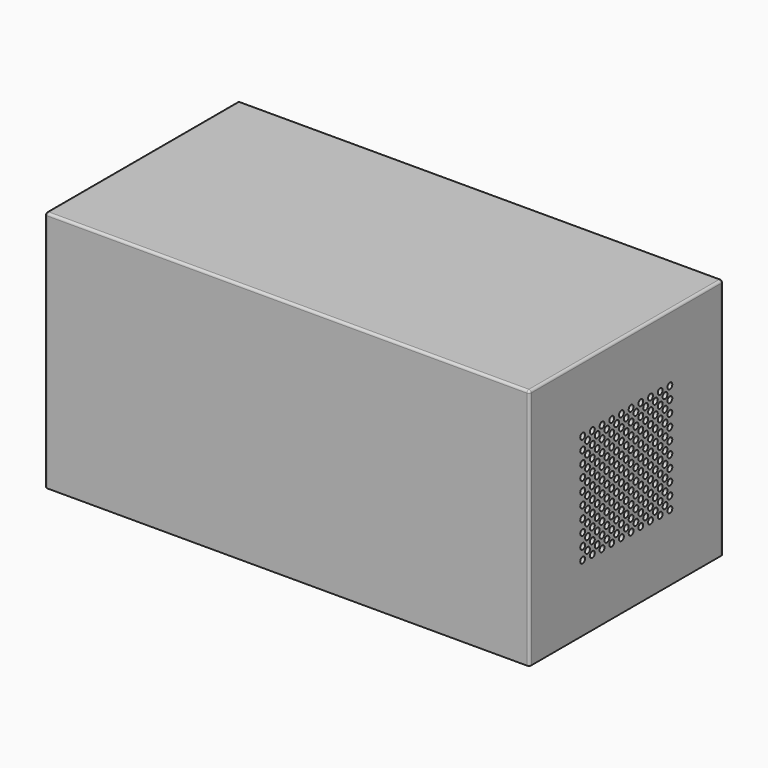
from build123d import *

# Parameters (mm, degrees)
SKETCH_W        = 200
SKETCH_H        = 100
PAD_DEPTH       = 100
SKETCH001_W     = 196
SKETCH001_H     = 96
POCKET_DEPTH    = 98
FILLET_R        = 1
SKETCH007_R     = 1.25
POCKET003_DEPTH = 2
SKETCH008_R     = 1.25
POCKET004_DEPTH = 2
SKETCH009_W     = 69
SKETCH009_H     = 44
PAD004_DEPTH    = 7.5
SKETCH010_W     = 67
SKETCH010_H     = 42
POCKET005_DEPTH = 7.5
SKETCH011_R     = 2.5
SKETCH011_W     = 17
SKETCH011_H     = 14.8
SKETCH011_W_2   = 11
SKETCH011_H_2   = 9
POCKET006_DEPTH = 2
SKETCH002_W     = 194.7
SKETCH002_H     = 95.7
PAD001_DEPTH    = 5
SKETCH003_W     = 95.7
SKETCH003_H     = 97.7
SKETCH003_R     = 23
SKETCH003_R_2   = 1.85
PAD002_DEPTH    = 7
SKETCH004_W     = 50.5
SKETCH004_H     = 50.5
POCKET001_DEPTH = 4.5
SKETCH005_W     = 95.7
SKETCH005_H     = 97.7
SKETCH005_R     = 23
SKETCH005_R_2   = 1.85
PAD003_DEPTH    = 7
SKETCH006_W     = 50.5
SKETCH006_H     = 50.5
POCKET002_DEPTH = 4.5
CHAMFER_SIZE    = 4.45
CHAMFER001_SIZE = 4.45
SKETCH012_W     = 85
SKETCH012_H     = 5
SKETCH012_W_2   = 80
SKETCH012_H_2   = 30
PAD005_DEPTH    = 5
SKETCH013_W     = 78
SKETCH013_H     = 28
POCKET007_DEPTH = 5
SKETCH014_W     = 5
SKETCH014_H     = 5
PAD006_DEPTH    = 10
SKETCH015_R     = 1.375
POCKET008_DEPTH = 6
SKETCH017_W     = 85
SKETCH017_H     = 5
PAD007_DEPTH    = 56
SKETCH018_R     = 3
PAD008_DEPTH    = 5
SKETCH019_R     = 1.75
HOLE_DEPTH      = 25
POCKET009_DEPTH = 2
PAD009_DEPTH    = 1
PAD010_DEPTH    = 1
FILLET001_R     = 2
SKETCH023_R     = 10
HOLE001_DEPTH   = 25


with BuildPart() as body:
    # Sketch → Pad (new body)
    with BuildSketch(Plane.XY):
        Rectangle(SKETCH_W, SKETCH_H)
    extrude(amount=PAD_DEPTH)

    # Sketch001 (on Face5 of Pad) → Pocket (cut)
    with BuildSketch(Plane(origin=(0, 0, 0), x_dir=(1, 0, 0), z_dir=(0, 0, -1))):
        Rectangle(SKETCH001_W, SKETCH001_H)
    extrude(amount=-POCKET_DEPTH, mode=Mode.SUBTRACT)

    # Fillet
    fillet_edges = [body.edges().sort_by_distance(p)[0] for p in [
        (100, 0, 100),
        (0, -50, 100),
        (-100, 0, 100),
        (0, 50, 100),
        (-100, -50, 50),
        (-100, 50, 50),
        (100, -50, 50),
        (100, 50, 50),
    ]]
    fillet(fillet_edges, radius=FILLET_R)

    # Sketch007 (on Face7 of Fillet) → Pocket003 (cut)
    with BuildSketch(Plane.YZ.offset(100)):
        with Locations((-22.5, 72.5)):
            Circle(SKETCH007_R)
        with Locations((-20, 70)):
            Circle(SKETCH007_R)
        with Locations((-17.5, 72.5)):
            Circle(SKETCH007_R)
        with Locations((-12.5, 72.5)):
            Circle(SKETCH007_R)
        with Locations((-7.5, 72.5)):
            Circle(SKETCH007_R)
        with Locations((-2.5, 72.5)):
            Circle(SKETCH007_R)
        with Locations((2.5, 72.5)):
            Circle(SKETCH007_R)
        with Locations((7.5, 72.5)):
            Circle(SKETCH007_R)
        with Locations((12.5, 72.5)):
            Circle(SKETCH007_R)
        with Locations((17.5, 72.5)):
            Circle(SKETCH007_R)
        with Locations((22.5, 72.5)):
            Circle(SKETCH007_R)
        with Locations((-22.5, 67.5)):
            Circle(SKETCH007_R)
        with Locations((-17.5, 67.5)):
            Circle(SKETCH007_R)
        with Locations((-12.5, 67.5)):
            Circle(SKETCH007_R)
        with Locations((-7.5, 67.5)):
            Circle(SKETCH007_R)
        with Locations((-2.5, 67.5)):
            Circle(SKETCH007_R)
        with Locations((2.5, 67.5)):
            Circle(SKETCH007_R)
        with Locations((7.5, 67.5)):
            Circle(SKETCH007_R)
        with Locations((12.5, 67.5)):
            Circle(SKETCH007_R)
        with Locations((17.5, 67.5)):
            Circle(SKETCH007_R)
        with Locations((22.5, 67.5)):
            Circle(SKETCH007_R)
        with Locations((-22.5, 62.5)):
            Circle(SKETCH007_R)
        with Locations((-17.5, 62.5)):
            Circle(SKETCH007_R)
        with Locations((-12.5, 62.5)):
            Circle(SKETCH007_R)
        with Locations((-7.5, 62.5)):
            Circle(SKETCH007_R)
        with Locations((-2.5, 62.5)):
            Circle(SKETCH007_R)
        with Locations((2.5, 62.5)):
            Circle(SKETCH007_R)
        with Locations((7.5, 62.5)):
            Circle(SKETCH007_R)
        with Locations((12.5, 62.5)):
            Circle(SKETCH007_R)
        with Locations((17.5, 62.5)):
            Circle(SKETCH007_R)
        with Locations((22.5, 62.5)):
            Circle(SKETCH007_R)
        with Locations((-22.5, 57.5)):
            Circle(SKETCH007_R)
        with Locations((-17.5, 57.5)):
            Circle(SKETCH007_R)
        with Locations((-12.5, 57.5)):
            Circle(SKETCH007_R)
        with Locations((-7.5, 57.5)):
            Circle(SKETCH007_R)
        with Locations((-2.5, 57.5)):
            Circle(SKETCH007_R)
        with Locations((2.5, 57.5)):
            Circle(SKETCH007_R)
        with Locations((7.5, 57.5)):
            Circle(SKETCH007_R)
        with Locations((12.5, 57.5)):
            Circle(SKETCH007_R)
        with Locations((17.5, 57.5)):
            Circle(SKETCH007_R)
        with Locations((22.5, 57.5)):
            Circle(SKETCH007_R)
        with Locations((-22.5, 52.5)):
            Circle(SKETCH007_R)
        with Locations((-17.5, 52.5)):
            Circle(SKETCH007_R)
        with Locations((-12.5, 52.5)):
            Circle(SKETCH007_R)
        with Locations((-7.5, 52.5)):
            Circle(SKETCH007_R)
        with Locations((-2.5, 52.5)):
            Circle(SKETCH007_R)
        with Locations((2.5, 52.5)):
            Circle(SKETCH007_R)
        with Locations((7.5, 52.5)):
            Circle(SKETCH007_R)
        with Locations((12.5, 52.5)):
            Circle(SKETCH007_R)
        with Locations((17.5, 52.5)):
            Circle(SKETCH007_R)
        with Locations((22.5, 52.5)):
            Circle(SKETCH007_R)
        with Locations((-22.5, 47.5)):
            Circle(SKETCH007_R)
        with Locations((-17.5, 47.5)):
            Circle(SKETCH007_R)
        with Locations((-12.5, 47.5)):
            Circle(SKETCH007_R)
        with Locations((-7.5, 47.5)):
            Circle(SKETCH007_R)
        with Locations((-2.5, 47.5)):
            Circle(SKETCH007_R)
        with Locations((2.5, 47.5)):
            Circle(SKETCH007_R)
        with Locations((7.5, 47.5)):
            Circle(SKETCH007_R)
        with Locations((12.5, 47.5)):
            Circle(SKETCH007_R)
        with Locations((17.5, 47.5)):
            Circle(SKETCH007_R)
        with Locations((22.5, 47.5)):
            Circle(SKETCH007_R)
        with Locations((-22.5, 42.5)):
            Circle(SKETCH007_R)
        with Locations((-17.5, 42.5)):
            Circle(SKETCH007_R)
        with Locations((-12.5, 42.5)):
            Circle(SKETCH007_R)
        with Locations((-7.5, 42.5)):
            Circle(SKETCH007_R)
        with Locations((-2.5, 42.5)):
            Circle(SKETCH007_R)
        with Locations((2.5, 42.5)):
            Circle(SKETCH007_R)
        with Locations((7.5, 42.5)):
            Circle(SKETCH007_R)
        with Locations((12.5, 42.5)):
            Circle(SKETCH007_R)
        with Locations((17.5, 42.5)):
            Circle(SKETCH007_R)
        with Locations((22.5, 42.5)):
            Circle(SKETCH007_R)
        with Locations((-22.5, 37.5)):
            Circle(SKETCH007_R)
        with Locations((-17.5, 37.5)):
            Circle(SKETCH007_R)
        with Locations((-12.5, 37.5)):
            Circle(SKETCH007_R)
        with Locations((-7.5, 37.5)):
            Circle(SKETCH007_R)
        with Locations((-2.5, 37.5)):
            Circle(SKETCH007_R)
        with Locations((2.5, 37.5)):
            Circle(SKETCH007_R)
        with Locations((7.5, 37.5)):
            Circle(SKETCH007_R)
        with Locations((12.5, 37.5)):
            Circle(SKETCH007_R)
        with Locations((17.5, 37.5)):
            Circle(SKETCH007_R)
        with Locations((22.5, 37.5)):
            Circle(SKETCH007_R)
        with Locations((-22.5, 32.5)):
            Circle(SKETCH007_R)
        with Locations((-17.5, 32.5)):
            Circle(SKETCH007_R)
        with Locations((-12.5, 32.5)):
            Circle(SKETCH007_R)
        with Locations((-7.5, 32.5)):
            Circle(SKETCH007_R)
        with Locations((-2.5, 32.5)):
            Circle(SKETCH007_R)
        with Locations((2.5, 32.5)):
            Circle(SKETCH007_R)
        with Locations((7.5, 32.5)):
            Circle(SKETCH007_R)
        with Locations((12.5, 32.5)):
            Circle(SKETCH007_R)
        with Locations((17.5, 32.5)):
            Circle(SKETCH007_R)
        with Locations((22.5, 32.5)):
            Circle(SKETCH007_R)
        with Locations((-22.5, 27.5)):
            Circle(SKETCH007_R)
        with Locations((-17.5, 27.5)):
            Circle(SKETCH007_R)
        with Locations((-12.5, 27.5)):
            Circle(SKETCH007_R)
        with Locations((-7.5, 27.5)):
            Circle(SKETCH007_R)
        with Locations((-2.5, 27.5)):
            Circle(SKETCH007_R)
        with Locations((2.5, 27.5)):
            Circle(SKETCH007_R)
        with Locations((7.5, 27.5)):
            Circle(SKETCH007_R)
        with Locations((12.5, 27.5)):
            Circle(SKETCH007_R)
        with Locations((17.5, 27.5)):
            Circle(SKETCH007_R)
        with Locations((22.5, 27.5)):
            Circle(SKETCH007_R)
        with Locations((-15, 70)):
            Circle(SKETCH007_R)
        with Locations((-10, 70)):
            Circle(SKETCH007_R)
        with Locations((-5, 70)):
            Circle(SKETCH007_R)
        with Locations((0, 70)):
            Circle(SKETCH007_R)
        with Locations((5, 70)):
            Circle(SKETCH007_R)
        with Locations((10, 70)):
            Circle(SKETCH007_R)
        with Locations((15, 70)):
            Circle(SKETCH007_R)
        with Locations((20, 70)):
            Circle(SKETCH007_R)
        with Locations((-20, 65)):
            Circle(SKETCH007_R)
        with Locations((-15, 65)):
            Circle(SKETCH007_R)
        with Locations((-10, 65)):
            Circle(SKETCH007_R)
        with Locations((-5, 65)):
            Circle(SKETCH007_R)
        with Locations((0, 65)):
            Circle(SKETCH007_R)
        with Locations((5, 65)):
            Circle(SKETCH007_R)
        with Locations((10, 65)):
            Circle(SKETCH007_R)
        with Locations((15, 65)):
            Circle(SKETCH007_R)
        with Locations((20, 65)):
            Circle(SKETCH007_R)
        with Locations((-20, 60)):
            Circle(SKETCH007_R)
        with Locations((-15, 60)):
            Circle(SKETCH007_R)
        with Locations((-10, 60)):
            Circle(SKETCH007_R)
        with Locations((-5, 60)):
            Circle(SKETCH007_R)
        with Locations((0, 60)):
            Circle(SKETCH007_R)
        with Locations((5, 60)):
            Circle(SKETCH007_R)
        with Locations((10, 60)):
            Circle(SKETCH007_R)
        with Locations((15, 60)):
            Circle(SKETCH007_R)
        with Locations((20, 60)):
            Circle(SKETCH007_R)
        with Locations((-20, 55)):
            Circle(SKETCH007_R)
        with Locations((-15, 55)):
            Circle(SKETCH007_R)
        with Locations((-10, 55)):
            Circle(SKETCH007_R)
        with Locations((-5, 55)):
            Circle(SKETCH007_R)
        with Locations((0, 55)):
            Circle(SKETCH007_R)
        with Locations((5, 55)):
            Circle(SKETCH007_R)
        with Locations((10, 55)):
            Circle(SKETCH007_R)
        with Locations((15, 55)):
            Circle(SKETCH007_R)
        with Locations((20, 55)):
            Circle(SKETCH007_R)
        with Locations((-20, 50)):
            Circle(SKETCH007_R)
        with Locations((-15, 50)):
            Circle(SKETCH007_R)
        with Locations((-10, 50)):
            Circle(SKETCH007_R)
        with Locations((-5, 50)):
            Circle(SKETCH007_R)
        with Locations((0, 50)):
            Circle(SKETCH007_R)
        with Locations((5, 50)):
            Circle(SKETCH007_R)
        with Locations((10, 50)):
            Circle(SKETCH007_R)
        with Locations((15, 50)):
            Circle(SKETCH007_R)
        with Locations((20, 50)):
            Circle(SKETCH007_R)
        with Locations((-20, 45)):
            Circle(SKETCH007_R)
        with Locations((-15, 45)):
            Circle(SKETCH007_R)
        with Locations((-10, 45)):
            Circle(SKETCH007_R)
        with Locations((-5, 45)):
            Circle(SKETCH007_R)
        with Locations((0, 45)):
            Circle(SKETCH007_R)
        with Locations((5, 45)):
            Circle(SKETCH007_R)
        with Locations((10, 45)):
            Circle(SKETCH007_R)
        with Locations((15, 45)):
            Circle(SKETCH007_R)
        with Locations((20, 45)):
            Circle(SKETCH007_R)
        with Locations((-20, 40)):
            Circle(SKETCH007_R)
        with Locations((-15, 40)):
            Circle(SKETCH007_R)
        with Locations((-10, 40)):
            Circle(SKETCH007_R)
        with Locations((-5, 40)):
            Circle(SKETCH007_R)
        with Locations((0, 40)):
            Circle(SKETCH007_R)
        with Locations((5, 40)):
            Circle(SKETCH007_R)
        with Locations((10, 40)):
            Circle(SKETCH007_R)
        with Locations((15, 40)):
            Circle(SKETCH007_R)
        with Locations((20, 40)):
            Circle(SKETCH007_R)
        with Locations((-20, 35)):
            Circle(SKETCH007_R)
        with Locations((-15, 35)):
            Circle(SKETCH007_R)
        with Locations((-10, 35)):
            Circle(SKETCH007_R)
        with Locations((-5, 35)):
            Circle(SKETCH007_R)
        with Locations((0, 35)):
            Circle(SKETCH007_R)
        with Locations((5, 35)):
            Circle(SKETCH007_R)
        with Locations((10, 35)):
            Circle(SKETCH007_R)
        with Locations((15, 35)):
            Circle(SKETCH007_R)
        with Locations((20, 35)):
            Circle(SKETCH007_R)
        with Locations((-20, 30)):
            Circle(SKETCH007_R)
        with Locations((-15, 30)):
            Circle(SKETCH007_R)
        with Locations((-10, 30)):
            Circle(SKETCH007_R)
        with Locations((-5, 30)):
            Circle(SKETCH007_R)
        with Locations((0, 30)):
            Circle(SKETCH007_R)
        with Locations((5, 30)):
            Circle(SKETCH007_R)
        with Locations((10, 30)):
            Circle(SKETCH007_R)
        with Locations((15, 30)):
            Circle(SKETCH007_R)
        with Locations((20, 30)):
            Circle(SKETCH007_R)
    extrude(amount=-POCKET003_DEPTH, mode=Mode.SUBTRACT)

    # Sketch008 (on Face6 of Pocket003) → Pocket004 (cut)
    with BuildSketch(Plane(origin=(-100, 0, 0), x_dir=(0, -1, 0), z_dir=(-1, 0, 0))):
        with Locations((-22.5, 72.5)):
            Circle(SKETCH008_R)
        with Locations((-20, 70)):
            Circle(SKETCH008_R)
        with Locations((-17.5, 72.5)):
            Circle(SKETCH008_R)
        with Locations((-12.5, 72.5)):
            Circle(SKETCH008_R)
        with Locations((-7.5, 72.5)):
            Circle(SKETCH008_R)
        with Locations((-2.5, 72.5)):
            Circle(SKETCH008_R)
        with Locations((2.5, 72.5)):
            Circle(SKETCH008_R)
        with Locations((7.5, 72.5)):
            Circle(SKETCH008_R)
        with Locations((12.5, 72.5)):
            Circle(SKETCH008_R)
        with Locations((17.5, 72.5)):
            Circle(SKETCH008_R)
        with Locations((22.5, 72.5)):
            Circle(SKETCH008_R)
        with Locations((-22.5, 67.5)):
            Circle(SKETCH008_R)
        with Locations((-17.5, 67.5)):
            Circle(SKETCH008_R)
        with Locations((-12.5, 67.5)):
            Circle(SKETCH008_R)
        with Locations((-7.5, 67.5)):
            Circle(SKETCH008_R)
        with Locations((-2.5, 67.5)):
            Circle(SKETCH008_R)
        with Locations((2.5, 67.5)):
            Circle(SKETCH008_R)
        with Locations((7.5, 67.5)):
            Circle(SKETCH008_R)
        with Locations((12.5, 67.5)):
            Circle(SKETCH008_R)
        with Locations((17.5, 67.5)):
            Circle(SKETCH008_R)
        with Locations((22.5, 67.5)):
            Circle(SKETCH008_R)
        with Locations((-22.5, 62.5)):
            Circle(SKETCH008_R)
        with Locations((-17.5, 62.5)):
            Circle(SKETCH008_R)
        with Locations((-12.5, 62.5)):
            Circle(SKETCH008_R)
        with Locations((-7.5, 62.5)):
            Circle(SKETCH008_R)
        with Locations((-2.5, 62.5)):
            Circle(SKETCH008_R)
        with Locations((2.5, 62.5)):
            Circle(SKETCH008_R)
        with Locations((7.5, 62.5)):
            Circle(SKETCH008_R)
        with Locations((12.5, 62.5)):
            Circle(SKETCH008_R)
        with Locations((17.5, 62.5)):
            Circle(SKETCH008_R)
        with Locations((22.5, 62.5)):
            Circle(SKETCH008_R)
        with Locations((-22.5, 57.5)):
            Circle(SKETCH008_R)
        with Locations((-17.5, 57.5)):
            Circle(SKETCH008_R)
        with Locations((-12.5, 57.5)):
            Circle(SKETCH008_R)
        with Locations((-7.5, 57.5)):
            Circle(SKETCH008_R)
        with Locations((-2.5, 57.5)):
            Circle(SKETCH008_R)
        with Locations((2.5, 57.5)):
            Circle(SKETCH008_R)
        with Locations((7.5, 57.5)):
            Circle(SKETCH008_R)
        with Locations((12.5, 57.5)):
            Circle(SKETCH008_R)
        with Locations((17.5, 57.5)):
            Circle(SKETCH008_R)
        with Locations((22.5, 57.5)):
            Circle(SKETCH008_R)
        with Locations((-22.5, 52.5)):
            Circle(SKETCH008_R)
        with Locations((-17.5, 52.5)):
            Circle(SKETCH008_R)
        with Locations((-12.5, 52.5)):
            Circle(SKETCH008_R)
        with Locations((-7.5, 52.5)):
            Circle(SKETCH008_R)
        with Locations((-2.5, 52.5)):
            Circle(SKETCH008_R)
        with Locations((2.5, 52.5)):
            Circle(SKETCH008_R)
        with Locations((7.5, 52.5)):
            Circle(SKETCH008_R)
        with Locations((12.5, 52.5)):
            Circle(SKETCH008_R)
        with Locations((17.5, 52.5)):
            Circle(SKETCH008_R)
        with Locations((22.5, 52.5)):
            Circle(SKETCH008_R)
        with Locations((-22.5, 47.5)):
            Circle(SKETCH008_R)
        with Locations((-17.5, 47.5)):
            Circle(SKETCH008_R)
        with Locations((-12.5, 47.5)):
            Circle(SKETCH008_R)
        with Locations((-7.5, 47.5)):
            Circle(SKETCH008_R)
        with Locations((-2.5, 47.5)):
            Circle(SKETCH008_R)
        with Locations((2.5, 47.5)):
            Circle(SKETCH008_R)
        with Locations((7.5, 47.5)):
            Circle(SKETCH008_R)
        with Locations((12.5, 47.5)):
            Circle(SKETCH008_R)
        with Locations((17.5, 47.5)):
            Circle(SKETCH008_R)
        with Locations((22.5, 47.5)):
            Circle(SKETCH008_R)
        with Locations((-22.5, 42.5)):
            Circle(SKETCH008_R)
        with Locations((-17.5, 42.5)):
            Circle(SKETCH008_R)
        with Locations((-12.5, 42.5)):
            Circle(SKETCH008_R)
        with Locations((-7.5, 42.5)):
            Circle(SKETCH008_R)
        with Locations((-2.5, 42.5)):
            Circle(SKETCH008_R)
        with Locations((2.5, 42.5)):
            Circle(SKETCH008_R)
        with Locations((7.5, 42.5)):
            Circle(SKETCH008_R)
        with Locations((12.5, 42.5)):
            Circle(SKETCH008_R)
        with Locations((17.5, 42.5)):
            Circle(SKETCH008_R)
        with Locations((22.5, 42.5)):
            Circle(SKETCH008_R)
        with Locations((-22.5, 37.5)):
            Circle(SKETCH008_R)
        with Locations((-17.5, 37.5)):
            Circle(SKETCH008_R)
        with Locations((-12.5, 37.5)):
            Circle(SKETCH008_R)
        with Locations((-7.5, 37.5)):
            Circle(SKETCH008_R)
        with Locations((-2.5, 37.5)):
            Circle(SKETCH008_R)
        with Locations((2.5, 37.5)):
            Circle(SKETCH008_R)
        with Locations((7.5, 37.5)):
            Circle(SKETCH008_R)
        with Locations((12.5, 37.5)):
            Circle(SKETCH008_R)
        with Locations((17.5, 37.5)):
            Circle(SKETCH008_R)
        with Locations((22.5, 37.5)):
            Circle(SKETCH008_R)
        with Locations((-22.5, 32.5)):
            Circle(SKETCH008_R)
        with Locations((-17.5, 32.5)):
            Circle(SKETCH008_R)
        with Locations((-12.5, 32.5)):
            Circle(SKETCH008_R)
        with Locations((-7.5, 32.5)):
            Circle(SKETCH008_R)
        with Locations((-2.5, 32.5)):
            Circle(SKETCH008_R)
        with Locations((2.5, 32.5)):
            Circle(SKETCH008_R)
        with Locations((7.5, 32.5)):
            Circle(SKETCH008_R)
        with Locations((12.5, 32.5)):
            Circle(SKETCH008_R)
        with Locations((17.5, 32.5)):
            Circle(SKETCH008_R)
        with Locations((22.5, 32.5)):
            Circle(SKETCH008_R)
        with Locations((-22.5, 27.5)):
            Circle(SKETCH008_R)
        with Locations((-17.5, 27.5)):
            Circle(SKETCH008_R)
        with Locations((-12.5, 27.5)):
            Circle(SKETCH008_R)
        with Locations((-7.5, 27.5)):
            Circle(SKETCH008_R)
        with Locations((-2.5, 27.5)):
            Circle(SKETCH008_R)
        with Locations((2.5, 27.5)):
            Circle(SKETCH008_R)
        with Locations((7.5, 27.5)):
            Circle(SKETCH008_R)
        with Locations((12.5, 27.5)):
            Circle(SKETCH008_R)
        with Locations((17.5, 27.5)):
            Circle(SKETCH008_R)
        with Locations((22.5, 27.5)):
            Circle(SKETCH008_R)
        with Locations((-15, 70)):
            Circle(SKETCH008_R)
        with Locations((-10, 70)):
            Circle(SKETCH008_R)
        with Locations((-5, 70)):
            Circle(SKETCH008_R)
        with Locations((0, 70)):
            Circle(SKETCH008_R)
        with Locations((5, 70)):
            Circle(SKETCH008_R)
        with Locations((10, 70)):
            Circle(SKETCH008_R)
        with Locations((15, 70)):
            Circle(SKETCH008_R)
        with Locations((20, 70)):
            Circle(SKETCH008_R)
        with Locations((-20, 65)):
            Circle(SKETCH008_R)
        with Locations((-15, 65)):
            Circle(SKETCH008_R)
        with Locations((-10, 65)):
            Circle(SKETCH008_R)
        with Locations((-5, 65)):
            Circle(SKETCH008_R)
        with Locations((0, 65)):
            Circle(SKETCH008_R)
        with Locations((5, 65)):
            Circle(SKETCH008_R)
        with Locations((10, 65)):
            Circle(SKETCH008_R)
        with Locations((15, 65)):
            Circle(SKETCH008_R)
        with Locations((20, 65)):
            Circle(SKETCH008_R)
        with Locations((-20, 60)):
            Circle(SKETCH008_R)
        with Locations((-15, 60)):
            Circle(SKETCH008_R)
        with Locations((-10, 60)):
            Circle(SKETCH008_R)
        with Locations((-5, 60)):
            Circle(SKETCH008_R)
        with Locations((0, 60)):
            Circle(SKETCH008_R)
        with Locations((5, 60)):
            Circle(SKETCH008_R)
        with Locations((10, 60)):
            Circle(SKETCH008_R)
        with Locations((15, 60)):
            Circle(SKETCH008_R)
        with Locations((20, 60)):
            Circle(SKETCH008_R)
        with Locations((-20, 55)):
            Circle(SKETCH008_R)
        with Locations((-15, 55)):
            Circle(SKETCH008_R)
        with Locations((-10, 55)):
            Circle(SKETCH008_R)
        with Locations((-5, 55)):
            Circle(SKETCH008_R)
        with Locations((0, 55)):
            Circle(SKETCH008_R)
        with Locations((5, 55)):
            Circle(SKETCH008_R)
        with Locations((10, 55)):
            Circle(SKETCH008_R)
        with Locations((15, 55)):
            Circle(SKETCH008_R)
        with Locations((20, 55)):
            Circle(SKETCH008_R)
        with Locations((-20, 50)):
            Circle(SKETCH008_R)
        with Locations((-15, 50)):
            Circle(SKETCH008_R)
        with Locations((-10, 50)):
            Circle(SKETCH008_R)
        with Locations((-5, 50)):
            Circle(SKETCH008_R)
        with Locations((0, 50)):
            Circle(SKETCH008_R)
        with Locations((5, 50)):
            Circle(SKETCH008_R)
        with Locations((10, 50)):
            Circle(SKETCH008_R)
        with Locations((15, 50)):
            Circle(SKETCH008_R)
        with Locations((20, 50)):
            Circle(SKETCH008_R)
        with Locations((-20, 45)):
            Circle(SKETCH008_R)
        with Locations((-15, 45)):
            Circle(SKETCH008_R)
        with Locations((-10, 45)):
            Circle(SKETCH008_R)
        with Locations((-5, 45)):
            Circle(SKETCH008_R)
        with Locations((0, 45)):
            Circle(SKETCH008_R)
        with Locations((5, 45)):
            Circle(SKETCH008_R)
        with Locations((10, 45)):
            Circle(SKETCH008_R)
        with Locations((15, 45)):
            Circle(SKETCH008_R)
        with Locations((20, 45)):
            Circle(SKETCH008_R)
        with Locations((-20, 40)):
            Circle(SKETCH008_R)
        with Locations((-15, 40)):
            Circle(SKETCH008_R)
        with Locations((-10, 40)):
            Circle(SKETCH008_R)
        with Locations((-5, 40)):
            Circle(SKETCH008_R)
        with Locations((0, 40)):
            Circle(SKETCH008_R)
        with Locations((5, 40)):
            Circle(SKETCH008_R)
        with Locations((10, 40)):
            Circle(SKETCH008_R)
        with Locations((15, 40)):
            Circle(SKETCH008_R)
        with Locations((20, 40)):
            Circle(SKETCH008_R)
        with Locations((-20, 35)):
            Circle(SKETCH008_R)
        with Locations((-15, 35)):
            Circle(SKETCH008_R)
        with Locations((-10, 35)):
            Circle(SKETCH008_R)
        with Locations((-5, 35)):
            Circle(SKETCH008_R)
        with Locations((0, 35)):
            Circle(SKETCH008_R)
        with Locations((5, 35)):
            Circle(SKETCH008_R)
        with Locations((10, 35)):
            Circle(SKETCH008_R)
        with Locations((15, 35)):
            Circle(SKETCH008_R)
        with Locations((20, 35)):
            Circle(SKETCH008_R)
        with Locations((-20, 30)):
            Circle(SKETCH008_R)
        with Locations((-15, 30)):
            Circle(SKETCH008_R)
        with Locations((-10, 30)):
            Circle(SKETCH008_R)
        with Locations((-5, 30)):
            Circle(SKETCH008_R)
        with Locations((0, 30)):
            Circle(SKETCH008_R)
        with Locations((5, 30)):
            Circle(SKETCH008_R)
        with Locations((10, 30)):
            Circle(SKETCH008_R)
        with Locations((15, 30)):
            Circle(SKETCH008_R)
        with Locations((20, 30)):
            Circle(SKETCH008_R)
    extrude(amount=-POCKET004_DEPTH, mode=Mode.SUBTRACT)

    # Sketch009 (on Face385 of Pocket004) → Pad004 (join)
    with BuildSketch(Plane(origin=(0, 0, 98), x_dir=(1, 0, 0), z_dir=(0, 0, -1))):
        Rectangle(SKETCH009_W, SKETCH009_H)
    extrude(amount=PAD004_DEPTH)

    # Sketch010 (on Face390 of Pad004) → Pocket005 (cut)
    with BuildSketch(Plane(origin=(0, 0, 90.5), x_dir=(1, 0, 0), z_dir=(0, 0, -1))):
        Rectangle(SKETCH010_W, SKETCH010_H)
    extrude(amount=-POCKET005_DEPTH, mode=Mode.SUBTRACT)

    # Sketch011 (on Face1 of Pocket005) → Pocket006 (cut)
    with BuildSketch(Plane(origin=(0, 50, 0), x_dir=(-1, 0, 0), z_dir=(0, 1, 0))):
        with Locations((-90, 90)):
            Circle(SKETCH011_R)
        with Locations((-70, 90)):
            Circle(SKETCH011_R)
        with Locations((-50, 90)):
            Circle(SKETCH011_R)
        with Locations((-30, 90)):
            Circle(SKETCH011_R)
        with Locations((30, 90)):
            Circle(SKETCH011_R)
        with Locations((50, 90)):
            Circle(SKETCH011_R)
        with Locations((70, 90)):
            Circle(SKETCH011_R)
        with Locations((90, 90)):
            Circle(SKETCH011_R)
        with Locations((-90, 70)):
            Circle(SKETCH011_R)
        with Locations((-70, 70)):
            Circle(SKETCH011_R)
        with Locations((-50, 70)):
            Circle(SKETCH011_R)
        with Locations((-30, 70)):
            Circle(SKETCH011_R)
        with Locations((-10, 70)):
            Circle(SKETCH011_R)
        with Locations((10, 70)):
            Circle(SKETCH011_R)
        with Locations((30, 70)):
            Circle(SKETCH011_R)
        with Locations((50, 70)):
            Circle(SKETCH011_R)
        with Locations((70, 70)):
            Circle(SKETCH011_R)
        with Locations((90, 70)):
            Circle(SKETCH011_R)
        with Locations((-90, 50)):
            Circle(SKETCH011_R)
        with Locations((-70, 50)):
            Circle(SKETCH011_R)
        with Locations((-50, 50)):
            Circle(SKETCH011_R)
        with Locations((-30, 50)):
            Circle(SKETCH011_R)
        with Locations((-10, 50)):
            Circle(SKETCH011_R)
        with Locations((10, 50)):
            Circle(SKETCH011_R)
        with Locations((30, 50)):
            Circle(SKETCH011_R)
        with Locations((50, 50)):
            Circle(SKETCH011_R)
        with Locations((70, 50)):
            Circle(SKETCH011_R)
        with Locations((90, 50)):
            Circle(SKETCH011_R)
        with Locations((-90, 30)):
            Circle(SKETCH011_R)
        with Locations((-70, 30)):
            Circle(SKETCH011_R)
        with Locations((-50, 30)):
            Circle(SKETCH011_R)
        with Locations((-30, 30)):
            Circle(SKETCH011_R)
        with Locations((-10, 30)):
            Circle(SKETCH011_R)
        with Locations((10, 30)):
            Circle(SKETCH011_R)
        with Locations((30, 30)):
            Circle(SKETCH011_R)
        with Locations((50, 30)):
            Circle(SKETCH011_R)
        with Locations((70, 30)):
            Circle(SKETCH011_R)
        with Locations((90, 30)):
            Circle(SKETCH011_R)
        with Locations((-90, 10)):
            Circle(SKETCH011_R)
        with Locations((-70, 10)):
            Circle(SKETCH011_R)
        with Locations((-50, 10)):
            Circle(SKETCH011_R)
        with Locations((-10, 10)):
            Circle(SKETCH011_R)
        with Locations((10, 10)):
            Circle(SKETCH011_R)
        with Locations((30, 10)):
            Circle(SKETCH011_R)
        with Locations((50, 10)):
            Circle(SKETCH011_R)
        with Locations((70, 10)):
            Circle(SKETCH011_R)
        with Locations((90, 10)):
            Circle(SKETCH011_R)
        with Locations((-80, 80)):
            Circle(SKETCH011_R)
        with Locations((-60, 80)):
            Circle(SKETCH011_R)
        with Locations((-40, 80)):
            Circle(SKETCH011_R)
        with Locations((-20, 80)):
            Circle(SKETCH011_R)
        with Locations((20, 80)):
            Circle(SKETCH011_R)
        with Locations((40, 80)):
            Circle(SKETCH011_R)
        with Locations((60, 80)):
            Circle(SKETCH011_R)
        with Locations((80, 80)):
            Circle(SKETCH011_R)
        with Locations((-80, 60)):
            Circle(SKETCH011_R)
        with Locations((-60, 60)):
            Circle(SKETCH011_R)
        with Locations((-40, 60)):
            Circle(SKETCH011_R)
        with Locations((-20, 60)):
            Circle(SKETCH011_R)
        with Locations((0, 60)):
            Circle(SKETCH011_R)
        with Locations((20, 60)):
            Circle(SKETCH011_R)
        with Locations((40, 60)):
            Circle(SKETCH011_R)
        with Locations((60, 60)):
            Circle(SKETCH011_R)
        with Locations((80, 60)):
            Circle(SKETCH011_R)
        with Locations((-80, 40)):
            Circle(SKETCH011_R)
        with Locations((-60, 40)):
            Circle(SKETCH011_R)
        with Locations((-40, 40)):
            Circle(SKETCH011_R)
        with Locations((-20, 40)):
            Circle(SKETCH011_R)
        with Locations((0, 40)):
            Circle(SKETCH011_R)
        with Locations((20, 40)):
            Circle(SKETCH011_R)
        with Locations((40, 40)):
            Circle(SKETCH011_R)
        with Locations((60, 40)):
            Circle(SKETCH011_R)
        with Locations((80, 40)):
            Circle(SKETCH011_R)
        with Locations((-80, 20)):
            Circle(SKETCH011_R)
        with Locations((-60, 20)):
            Circle(SKETCH011_R)
        with Locations((-40, 20)):
            Circle(SKETCH011_R)
        with Locations((-20, 20)):
            Circle(SKETCH011_R)
        with Locations((0, 20)):
            Circle(SKETCH011_R)
        with Locations((20, 20)):
            Circle(SKETCH011_R)
        with Locations((40, 20)):
            Circle(SKETCH011_R)
        with Locations((60, 20)):
            Circle(SKETCH011_R)
        with Locations((80, 20)):
            Circle(SKETCH011_R)
        with Locations((0, 82.6)):
            Rectangle(SKETCH011_W, SKETCH011_H)
        with Locations((-31.9, 9.5)):
            Rectangle(SKETCH011_W_2, SKETCH011_H_2)
    extrude(amount=-POCKET006_DEPTH, mode=Mode.SUBTRACT)


with BuildPart() as body001:
    # Sketch002 → Pad001 (new body)
    with BuildSketch(Plane.XY):
        Rectangle(SKETCH002_W, SKETCH002_H)
    extrude(amount=PAD001_DEPTH)

    # Sketch003 (on Face2 of Pad001) → Pad002 (join)
    with BuildSketch(Plane.YZ.offset(97.35)):
        with Locations((0, 48.85)):
            Rectangle(SKETCH003_W, SKETCH003_H)
        with Locations((0, 50)):
            Circle(SKETCH003_R, mode=Mode.SUBTRACT)
        with Locations((-22, 72)):
            Circle(SKETCH003_R_2, mode=Mode.SUBTRACT)
        with Locations((22, 72)):
            Circle(SKETCH003_R_2, mode=Mode.SUBTRACT)
        with Locations((-22, 28)):
            Circle(SKETCH003_R_2, mode=Mode.SUBTRACT)
        with Locations((22, 28)):
            Circle(SKETCH003_R_2, mode=Mode.SUBTRACT)
    extrude(amount=-PAD002_DEPTH)

    # Sketch004 (on Face12 of Pad002) → Pocket001 (cut)
    with BuildSketch(Plane.YZ.offset(97.35)):
        with Locations((0, 50)):
            Rectangle(SKETCH004_W, SKETCH004_H)
    extrude(amount=-POCKET001_DEPTH, mode=Mode.SUBTRACT)

    # Sketch005 (on Face5 of Pocket001) → Pad003 (join)
    with BuildSketch(Plane(origin=(-97.35, 0, 0), x_dir=(0, -1, 0), z_dir=(-1, 0, 0))):
        with Locations((0, 48.85)):
            Rectangle(SKETCH005_W, SKETCH005_H)
        with Locations((0, 50)):
            Circle(SKETCH005_R, mode=Mode.SUBTRACT)
        with Locations((-22, 72)):
            Circle(SKETCH005_R_2, mode=Mode.SUBTRACT)
        with Locations((22, 72)):
            Circle(SKETCH005_R_2, mode=Mode.SUBTRACT)
        with Locations((22, 28)):
            Circle(SKETCH005_R_2, mode=Mode.SUBTRACT)
        with Locations((-22, 28)):
            Circle(SKETCH005_R_2, mode=Mode.SUBTRACT)
    extrude(amount=-PAD003_DEPTH)

    # Sketch006 (on Face10 of Pad003) → Pocket002 (cut)
    with BuildSketch(Plane(origin=(-97.35, 0, 0), x_dir=(0, -1, 0), z_dir=(-1, 0, 0))):
        with Locations((0, 50)):
            Rectangle(SKETCH006_W, SKETCH006_H)
    extrude(amount=-POCKET002_DEPTH, mode=Mode.SUBTRACT)

    # Chamfer
    chamfer_edges = [body001.edges().sort_by_distance(p)[0] for p in [
        (-97.35, 0, 75.25),
    ]]
    chamfer(chamfer_edges, length=CHAMFER_SIZE)

    # Chamfer001
    chamfer001_edges = [body001.edges().sort_by_distance(p)[0] for p in [
        (97.35, 0, 75.25),
    ]]
    chamfer(chamfer001_edges, length=CHAMFER001_SIZE)

    # Sketch012 (on Face21 of Chamfer001) → Pad005 (join)
    with BuildSketch(Plane.XY.offset(5)):
        with Locations((0, 42.5)):
            Rectangle(SKETCH012_W, SKETCH012_H)
        with Locations((0, -30.85)):
            Rectangle(SKETCH012_W_2, SKETCH012_H_2)
    extrude(amount=PAD005_DEPTH)

    # Sketch013 (on Face45 of Pad005) → Pocket007 (cut)
    with BuildSketch(Plane.XY.offset(10)):
        with Locations((0, -30.85)):
            Rectangle(SKETCH013_W, SKETCH013_H)
    extrude(amount=-POCKET007_DEPTH, mode=Mode.SUBTRACT)

    # Sketch014 (on Face21 of Pocket007) → Pad006 (join)
    with BuildSketch(Plane.XY.offset(5)):
        with Locations((-73.66, -33.15)):
            Rectangle(SKETCH014_W, SKETCH014_H)
        with Locations((-48.25, -33.15)):
            Rectangle(SKETCH014_W, SKETCH014_H)
        with Locations((48.25, -33.15)):
            Rectangle(SKETCH014_W, SKETCH014_H)
        with Locations((73.66, -33.15)):
            Rectangle(SKETCH014_W, SKETCH014_H)
    extrude(amount=PAD006_DEPTH)

    # Sketch015 (on Face64 of Pad006) → Pocket008 (cut)
    with BuildSketch(Plane.XY.offset(15)):
        with Locations((-73.66, -33.15)):
            Circle(SKETCH015_R)
        with Locations((-48.25, -33.15)):
            Circle(SKETCH015_R)
        with Locations((48.25, -33.15)):
            Circle(SKETCH015_R)
        with Locations((73.66, -33.15)):
            Circle(SKETCH015_R)
    extrude(amount=-POCKET008_DEPTH, mode=Mode.SUBTRACT)

    # Sketch017 (on Face66 of Pocket008) → Pad007 (join)
    with BuildSketch(Plane.XY.offset(10)):
        with Locations((0, 42.5)):
            Rectangle(SKETCH017_W, SKETCH017_H)
    extrude(amount=PAD007_DEPTH)

    # Sketch018 (on Face69 of Pad007) → Pad008 (join)
    with BuildSketch(Plane.XZ.offset(-40)):
        with Locations((-19, 13.5)):
            Circle(SKETCH018_R)
        with Locations((39, 13.5)):
            Circle(SKETCH018_R)
        with Locations((-19, 62.5)):
            Circle(SKETCH018_R)
        with Locations((39, 62.5)):
            Circle(SKETCH018_R)
    extrude(amount=PAD008_DEPTH)

    # Sketch019 (on Face98 of Pad008) → Hole (cut)
    with BuildSketch(Plane.XZ.offset(-35)):
        with Locations((-19, 62.5)):
            Circle(SKETCH019_R)
        with Locations((39, 62.5)):
            Circle(SKETCH019_R)
        with Locations((39, 13.5)):
            Circle(SKETCH019_R)
        with Locations((-19, 13.5)):
            Circle(SKETCH019_R)
    extrude(amount=-HOLE_DEPTH, mode=Mode.SUBTRACT)

    # Sketch021 (on Face66 of Hole) → Pocket009 (cut)
    with BuildSketch(Plane(origin=(0, 45, 0), x_dir=(-1, 0, 0), z_dir=(0, 1, 0))):
        Polygon((-37.625, 60.11843), (-36.25, 62.5), (-37.625, 64.88157), (-40.375, 64.88157), (-41.75, 62.5), (-40.375, 60.11843), align=None)
        Polygon((21.75, 62.5), (20.375, 64.88157), (17.625, 64.88157), (16.25, 62.5), (17.625, 60.11843), (20.375, 60.11843), align=None)
        Polygon((-37.625, 11.11843), (-36.25, 13.5), (-37.625, 15.88157), (-40.375, 15.88157), (-41.75, 13.5), (-40.375, 11.11843), align=None)
        Polygon((21.75, 13.5), (20.375, 15.88157), (17.625, 15.88157), (16.25, 13.5), (17.625, 11.11843), (20.375, 11.11843), align=None)
    extrude(amount=-POCKET009_DEPTH, mode=Mode.SUBTRACT)

    # Sketch020 (on Face23 of Pad008) → Pad009 (join)
    with BuildSketch(Plane.XZ.offset(47.85)):
        Polygon((-90.35, 97.7), (-75.35, 5), (-91.35, 5), (-91.35, 97.7), align=None)
        Polygon((91.35, 97.7), (91.35, 5), (75.35, 5), (90.35, 97.7), align=None)
    extrude(amount=-PAD009_DEPTH)

    # Sketch022 (on Face26 of Pad009) → Pad010 (join)
    with BuildSketch(Plane(origin=(0, 47.85, 0), x_dir=(-1, 0, 0), z_dir=(0, 1, 0))):
        Polygon((-91.35, 97.7), (-90.35, 97.7), (-75.35, 5), (-91.35, 5), align=None)
        Polygon((90.35, 97.7), (75.35, 5), (91.35, 5), (91.35, 97.7), align=None)
    extrude(amount=-PAD010_DEPTH)

    # Fillet001
    fillet001_edges = [body001.edges().sort_by_distance(p)[0] for p in [
        (97.35, -47.85, 51.35),
        (97.35, 0, 97.7),
        (97.35, 47.85, 51.35),
        (-97.35, -47.85, 51.35),
        (-97.35, 0, 97.7),
        (-97.35, 47.85, 51.35),
    ]]
    fillet(fillet001_edges, radius=FILLET001_R)

    # Sketch023 (on Face38 of Fillet001) → Hole001 (cut)
    with BuildSketch(Plane.XY.offset(5)):
        with Locations((-65, 25)):
            Circle(SKETCH023_R)
        with Locations((65, 25)):
            Circle(SKETCH023_R)
    extrude(amount=-HOLE001_DEPTH, mode=Mode.SUBTRACT)


solid = Compound([body.part, body001.part])
